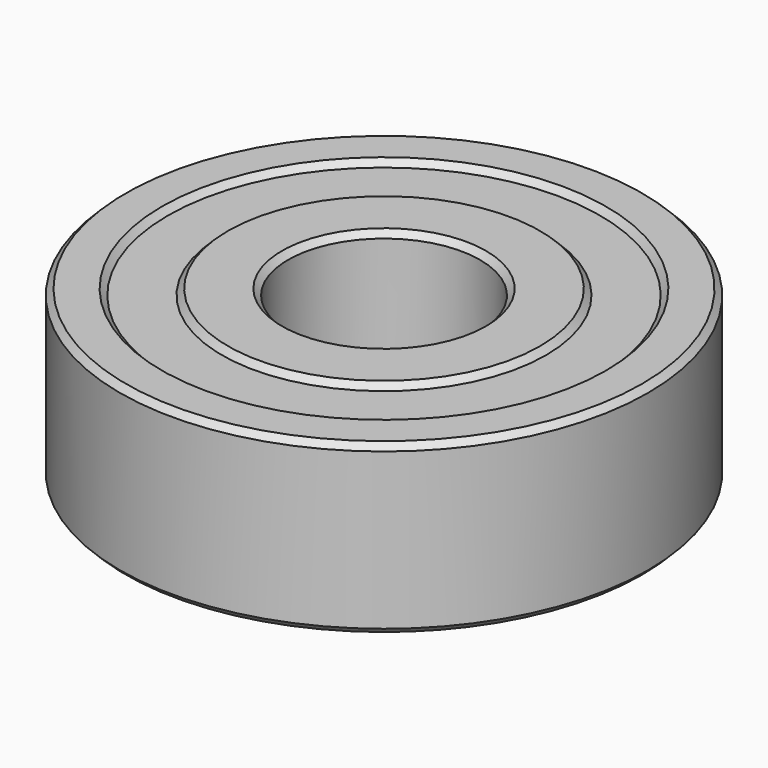
from build123d import *

# Parameters (mm, degrees)
CHAMFER_SIZE = 0.25


with BuildPart() as part:
    # Sketch → Revolution (revolve)
    with BuildSketch(Plane.XZ):
        Polygon((4, -3.5), (6.5, -3.5), (6.75, -3.25), (9, -3.25), (9.25, -3.5), (11, -3.5), (11, 3.5), (9.25, 3.5), (9, 3.25), (6.75, 3.25), (6.5, 3.5), (4, 3.5), align=None)
    revolve(axis=Axis((0, 0, 0), (0, 0, 1)))

    # Chamfer
    chamfer_edges = [part.edges().sort_by_distance(p)[0] for p in [
        (-11, 0, -3.5),
        (-4, 0, -3.5),
        (-11, 0, 3.5),
        (-4, 0, 3.5),
    ]]
    chamfer(chamfer_edges, length=CHAMFER_SIZE)


solid = part.part
